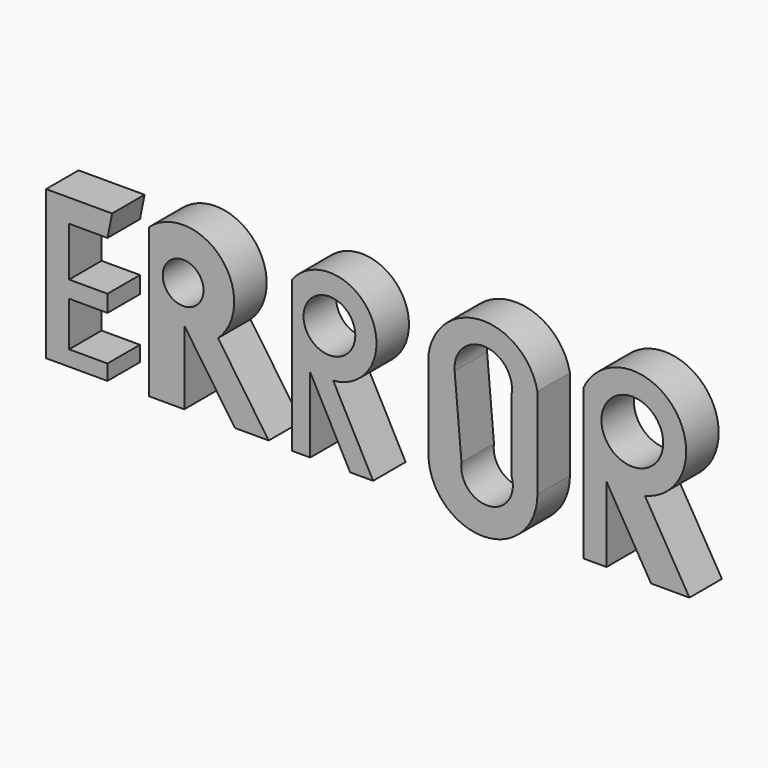
from build123d import *

# Parameters (mm, degrees)
F0_R     = 2.552204
F0_R_2   = 3.238554
F0_R_3   = 3.862189
F1_DEPTH = 5.08


with BuildPart() as f1:
    # F0 (on Front) → F1 (new body)
    with BuildSketch(Plane.XZ):
        Polygon((-43.425631, 40.013853), (-42.849366, 42.895164), (-51.10912, 42.895164), (-51.10912, 33.2908), (-51.10912, 24.262695), (-43.425631, 24.262695), (-43.425631, 26.183568), (-48.227813, 26.183568), (-48.227813, 31.754099), (-43.425631, 31.754099), (-43.425631, 33.867061), (-48.227813, 33.867061), (-48.227813, 40.013853), align=None)
        with BuildLine():
            Line((-38.23927, 42.895164), (-38.23927, 24.262695))
            Line((-38.23927, 24.262695), (-33.821266, 24.262695))
            Line((-33.821266, 24.262695), (-33.821266, 33.482887))
            Line((-33.821266, 33.482887), (-27.482383, 24.262695))
            Line((-27.482383, 24.262695), (-23.256462, 24.262695))
            Line((-23.256462, 24.262695), (-29.595345, 33.482887))
            ThreePointArc((-29.595345, 33.482887), (-29.259322, 42.466767), (-38.23927, 42.895164))
        make_face()
        with Locations((-33.965709, 38.144575)):
            Circle(F0_R, mode=Mode.SUBTRACT)
        with BuildLine():
            Line((-20.375153, 42.895164), (-20.375153, 24.070607))
            Line((-20.375153, 24.070607), (-18.070105, 24.070607))
            Line((-18.070105, 24.070607), (-18.070105, 33.482886))
            Line((-18.070105, 33.482886), (-13.075836, 24.070607))
            Line((-13.075836, 24.070607), (-10.194526, 24.070607))
            Line((-10.194526, 24.070607), (-15.188796, 33.482886))
            ThreePointArc((-15.188796, 33.482886), (-10.502426, 42.200205), (-20.375153, 42.895164))
        make_face()
        with Locations((-15.663431, 39.356386)):
            Circle(F0_R_2, mode=Mode.SUBTRACT)
        with BuildLine():
            Line((10.358815, 29.256964), (10.358815, 40.590115))
            ThreePointArc((10.358815, 40.590115), (3.376979, 46.175177), (-3.279384, 40.205941))
            Line((-3.279384, 40.205941), (-3.279384, 29.256964))
            ThreePointArc((-3.279384, 29.256964), (3.539716, 22.437865), (10.358815, 29.256964))
        make_face()
        with BuildLine():
            ThreePointArc((0, 39.492212), (3.698762, 43.401517), (7.138073, 39.262116))
            Line((7.138073, 39.262116), (7.138073, 30.176764))
            ThreePointArc((7.138073, 30.176764), (4.294358, 26.003387), (0.859126, 29.705139))
            Line((0.859126, 29.705139), (0, 39.492212))
        make_face(mode=Mode.SUBTRACT)
        with BuildLine():
            Line((16.121432, 42.895164), (16.121432, 24.070607))
            Line((16.121432, 24.070607), (19.002741, 24.070607))
            Line((19.002741, 24.070607), (19.002741, 33.482886))
            Line((19.002741, 33.482886), (24.573276, 24.070607))
            Line((24.573276, 24.070607), (29.375458, 24.070607))
            Line((29.375458, 24.070607), (23.804924, 33.482886))
            ThreePointArc((23.804924, 33.482886), (27.44997, 44.300692), (16.121432, 42.895164))
        make_face()
        with Locations((22.227453, 40.037413)):
            Circle(F0_R_3, mode=Mode.SUBTRACT)
    extrude(amount=F1_DEPTH)


solid = f1.part
